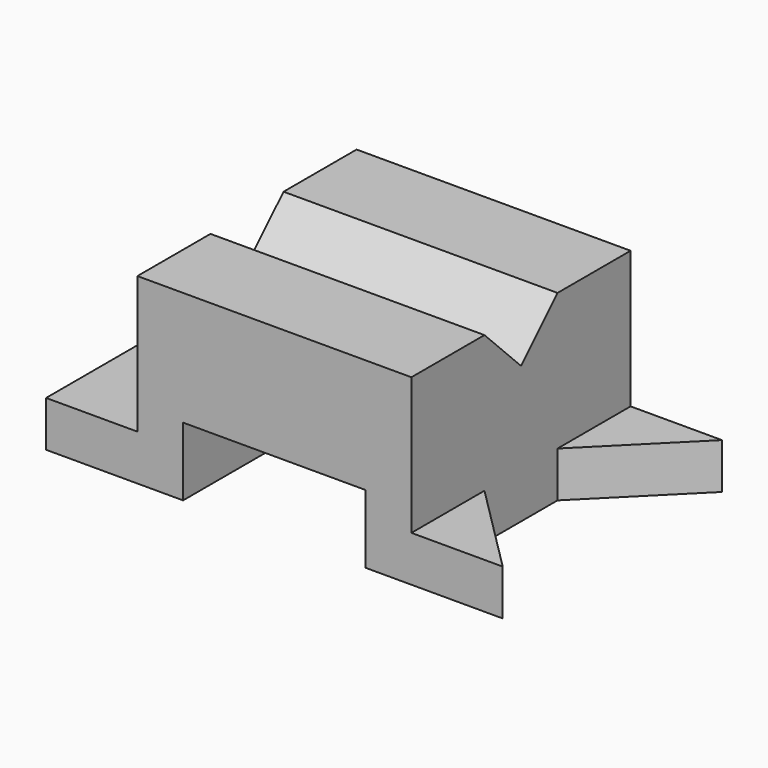
from build123d import *

# Parameters (mm, degrees)
F1_DEPTH = 76.2
F3_DEPTH = 12.701
F5_DEPTH = 101.601


with BuildPart() as f1:
    # F0 (on Front) → F1 (new body)
    with BuildSketch(Plane.XZ):
        Polygon((0, 12.7), (0, 0), (38.1, 0), (38.1, 19.05), (88.9, 19.05), (88.9, 0), (127, 0), (127, 12.7), (101.6, 12.7), (101.6, 50.8), (25.4, 50.8), (25.4, 12.7), align=None)
    extrude(amount=F1_DEPTH)

    # F2 (on face) → F3 (cut, through all)
    with BuildSketch(Plane.XY.offset(12.7)):
        Polygon((101.6, -50.8), (127, -76.2), (127, 0), (101.6, -25.4), align=None)
    extrude(amount=-F3_DEPTH, mode=Mode.SUBTRACT)

    # F4 (on face) → F5 (cut, through all)
    with BuildSketch(Plane.YZ.offset(101.6)):
        Polygon((-25.4, 50.8), (-50.8, 50.8), (-38.1, 38.1), align=None)
    extrude(amount=-F5_DEPTH, mode=Mode.SUBTRACT)


solid = f1.part
